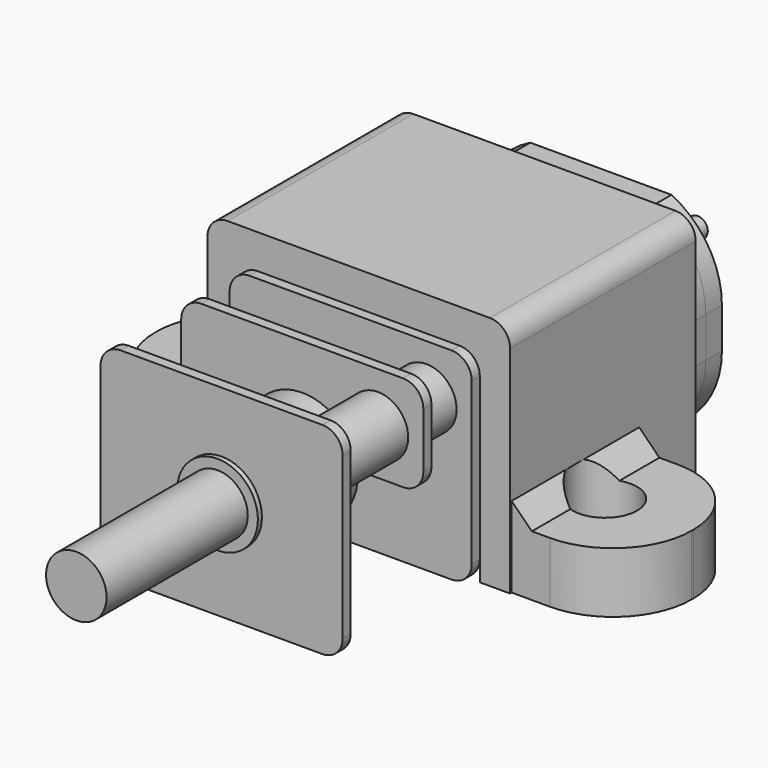
from build123d import *

# Parameters (mm, degrees)
PAD_DEPTH       = 14
POCKET_DEPTH    = 13.5
SKETCH002_R     = 1.5
POCKET001_DEPTH = 14.001
PAD001_DEPTH    = 1
SKETCH004_R     = 2.5
PAD002_DEPTH    = 1
SKETCH005_R     = 1.5
POCKET002_DEPTH = 2.001
SKETCH006_W     = 12
SKETCH006_H     = 10
PAD003_DEPTH    = 0.5
SKETCH007_R     = 1.5
PAD004_DEPTH    = 7.7
SKETCH008_W     = 12
SKETCH008_H     = 10
PAD005_DEPTH    = 0.5
SKETCH009_W     = 12
SKETCH009_H     = 10
PAD006_DEPTH    = 0.5
SKETCH010_R     = 2
PAD007_DEPTH    = 0.25
SKETCH011_R     = 2.5
PAD008_DEPTH    = 3
SKETCH012_R     = 1.5
POCKET003_DEPTH = 5
POCKET004_DEPTH = 1
FILLET_R        = 1
SKETCH014_R     = 1.5
POCKET005_DEPTH = 2
SKETCH015_R     = 1.5
PAD009_DEPTH    = 18
SKETCH016_R     = 1.5
PAD010_DEPTH    = 14
SKETCH017_R     = 2.75
PAD011_DEPTH    = 1.5
PAD012_DEPTH    = 11.5
FILLET001_R     = 1
FILLET002_R     = 2
SKETCH019_W     = 5.8
SKETCH019_H     = 7.9
PAD013_DEPTH    = 3
CHAMFER_SIZE    = 1
FILLET003_R     = 3.9
SKETCH020_R     = 1.6
POCKET006_DEPTH = 4
SKETCH021_R     = 0.5
PAD014_DEPTH    = 5


with BuildPart() as motorshell:
    # Sketch → Pad (new body)
    with BuildSketch(Plane.XZ):
        with BuildLine():
            Line((-3.5, 5), (3.5, 5))
            ThreePointArc((6, 1), (5.323594, 3.358497), (3.5, 5))
            Line((6, 1), (6, -1))
            ThreePointArc((3.5, -5), (5.323594, -3.358497), (6, -1))
            Line((-3.5, -5), (3.5, -5))
            ThreePointArc((-6, -1), (-5.323594, -3.358496), (-3.5, -5))
            Line((-6, 1), (-6, -1))
            ThreePointArc((-3.5, 5), (-5.323594, 3.358496), (-6, 1))
        make_face()
    extrude(amount=PAD_DEPTH)

    # Sketch001 → Pocket (cut)
    with BuildSketch(Plane.XZ):
        with BuildLine():
            Line((-3, 4.5), (3, 4.5))
            ThreePointArc((5.5, 1), (4.810812, 3.15058), (3, 4.5))
            Line((5.5, 1), (5.5, -1))
            ThreePointArc((3, -4.5), (4.810812, -3.15058), (5.5, -1))
            Line((-3, -4.5), (3, -4.5))
            ThreePointArc((-5.5, -1), (-4.810812, -3.15058), (-3, -4.5))
            Line((-5.5, -1), (-5.5, 1))
            ThreePointArc((-3, 4.5), (-4.810812, 3.15058), (-5.5, 1))
        make_face()
    extrude(amount=POCKET_DEPTH, mode=Mode.SUBTRACT)

    # Sketch002 → Pocket001 (cut, through all)
    with BuildSketch(Plane.XZ):
        Circle(SKETCH002_R)
    extrude(amount=POCKET001_DEPTH, mode=Mode.SUBTRACT)


with BuildPart() as backplate:
    # Sketch003 → Pad001 (new body)
    with BuildSketch(Plane.XZ):
        with BuildLine():
            Line((-3.5, 5), (3.5, 5))
            ThreePointArc((6, 1), (5.323593, 3.358495), (3.5, 5))
            Line((6, 1), (6, -1))
            ThreePointArc((3.5, -5), (5.323593, -3.358495), (6, -1))
            Line((3.5, -5), (-3.5, -5))
            ThreePointArc((-6, -1), (-5.323593, -3.358495), (-3.5, -5))
            Line((-6, -1), (-6, 1))
            ThreePointArc((-3.5, 5), (-5.323593, 3.358495), (-6, 1))
        make_face()
    extrude(amount=-PAD001_DEPTH)

    # Sketch004 (on Face10 of Pad001) → Pad002 (join)
    with BuildSketch(Plane(origin=(0, 1, 0), x_dir=(1, 0, 0), z_dir=(0, 1, 0))):
        Circle(SKETCH004_R)
    extrude(amount=PAD002_DEPTH)

    # Sketch005 (on Face12 of Pad002) → Pocket002 (cut, through all)
    with BuildSketch(Plane(origin=(0, 2, 0), x_dir=(1, 0, 0), z_dir=(0, 1, 0))):
        Circle(SKETCH005_R)
    extrude(amount=-POCKET002_DEPTH, mode=Mode.SUBTRACT)


with BuildPart() as gearplates:
    # Sketch006 (on DatumPlane) → Pad003 (new body)
    with BuildSketch(Plane.XZ.offset(14)):
        Rectangle(SKETCH006_W, SKETCH006_H)
    extrude(amount=PAD003_DEPTH)

    # Sketch007 (on Face6 of Pad003) → Pad004 (join)
    with BuildSketch(Plane.XZ.offset(14.5)):
        with Locations((3.75, 2.5)):
            Circle(SKETCH007_R)
        with Locations((-3.75, -2.5)):
            Circle(SKETCH007_R)
    extrude(amount=PAD004_DEPTH)

    # Sketch008 (on DatumPlane) → Pad005 (join)
    with BuildSketch(Plane.XZ.offset(17)):
        Rectangle(SKETCH008_W, SKETCH008_H)
    extrude(amount=PAD005_DEPTH)

    # Sketch009 (on DatumPlane) → Pad006 (join)
    with BuildSketch(Plane.XZ.offset(22)):
        Rectangle(SKETCH009_W, SKETCH009_H)
    extrude(amount=PAD006_DEPTH)

    # Sketch010 (on Face22 of Pad006) → Pad007 (join)
    with BuildSketch(Plane.XZ.offset(22.5)):
        Circle(SKETCH010_R)
    extrude(amount=PAD007_DEPTH)

    # Sketch011 (on Face17 of Pad007) → Pad008 (join)
    with BuildSketch(Plane(origin=(0, -22, 0), x_dir=(1, 0, 0), z_dir=(0, 1, 0))):
        Circle(SKETCH011_R)
    extrude(amount=PAD008_DEPTH)

    # Sketch012 (on Face26 of Pad008) → Pocket003 (cut)
    with BuildSketch(Plane.XZ.offset(22.75)):
        Circle(SKETCH012_R)
    extrude(amount=-POCKET003_DEPTH, mode=Mode.SUBTRACT)

    # Sketch013 (on Face14 of Pocket003) → Pocket004 (cut)
    with BuildSketch(Plane.XZ.offset(17.5)):
        with BuildLine():
            Line((7.000018, 0.25), (7.000018, -6))
            Line((7.000018, -6), (0.75, -6))
            Line((0.75, -2), (0.75, -6))
            ThreePointArc((3.000018, 0.25), (1.409016, -0.409003), (0.75, -2))
            Line((3.000018, 0.25), (7.000018, 0.25))
        make_face()
    extrude(amount=-POCKET004_DEPTH, mode=Mode.SUBTRACT)

    # Fillet
    fillet_edges = [gearplates.edges().sort_by_distance(p)[0] for p in [
        (6, -22.25, 5),
        (6, -17.25, 5),
        (6, -14.25, 5),
        (-6, -22.25, 5),
        (-6, -17.25, 5),
        (-6, -14.25, 5),
        (-6, -22.25, -5),
        (-6, -17.25, -5),
        (-6, -14.25, -5),
        (6, -22.25, -5),
        (6, -14.25, -5),
        (6, -17.25, 0.25),
        (0.75, -17.25, -5),
    ]]
    fillet(fillet_edges, radius=FILLET_R)

    # Sketch014 (on Face2 of Fillet) → Pocket005 (cut)
    with BuildSketch(Plane(origin=(0, -14, 0), x_dir=(1, 0, 0), z_dir=(0, 1, 0))):
        Circle(SKETCH014_R)
    extrude(amount=-POCKET005_DEPTH, mode=Mode.SUBTRACT)


with BuildPart() as motorshaft:
    # Sketch015 (on DatumPlane) → Pad009 (new body)
    with BuildSketch(Plane.XZ.offset(-2)):
        Circle(SKETCH015_R)
    extrude(amount=PAD009_DEPTH)


with BuildPart() as wheelshaft:
    # Sketch016 (on DatumPlane) → Pad010 (new body)
    with BuildSketch(Plane.XZ.offset(17.5)):
        Circle(SKETCH016_R)
    extrude(amount=PAD010_DEPTH)

    # Sketch017 (on DatumPlane) → Pad011 (join)
    with BuildSketch(Plane.XZ.offset(17.5)):
        Circle(SKETCH017_R)
    extrude(amount=PAD011_DEPTH)


with BuildPart() as mountbracket:
    # Sketch018 (on DatumPlane) → Pad012 (new body)
    with BuildSketch(Plane.XZ.offset(2.5)):
        Polygon((-7.5, -5), (-7.5, 6.7), (7.5, 6.7), (7.5, -5), (6, -5), (6, 5), (-6, 5), (-6, -5), align=None)
    extrude(amount=PAD012_DEPTH)

    # Fillet001
    fillet001_edges = [mountbracket.edges().sort_by_distance(p)[0] for p in [
        (-7.5, -8.25, 6.7),
        (7.5, -8.25, 6.7),
    ]]
    fillet(fillet001_edges, radius=FILLET001_R)

    # Fillet002
    fillet002_edges = [mountbracket.edges().sort_by_distance(p)[0] for p in [
        (6, -8.25, 5),
        (-6, -8.25, 5),
    ]]
    fillet(fillet002_edges, radius=FILLET002_R)

    # Sketch019 (on DatumPlane) → Pad013 (join)
    with BuildSketch(Plane.XY.offset(-5)):
        with Locations((10.4, -9.95)):
            Rectangle(SKETCH019_W, SKETCH019_H)
        with Locations((-10.4, -9.95)):
            Rectangle(SKETCH019_W, SKETCH019_H)
    extrude(amount=PAD013_DEPTH)

    # Chamfer
    chamfer_edges = [mountbracket.edges().sort_by_distance(p)[0] for p in [
        (7.5, -9.95, -2),
        (-7.5, -9.95, -2),
    ]]
    chamfer(chamfer_edges, length=CHAMFER_SIZE)

    # Fillet003
    fillet003_edges = [mountbracket.edges().sort_by_distance(p)[0] for p in [
        (13.3, -6, -3.5),
        (13.3, -13.9, -3.5),
        (-13.3, -13.9, -3.5),
        (-13.3, -6, -3.5),
    ]]
    fillet(fillet003_edges, radius=FILLET003_R)

    # Sketch020 (on DatumPlane) → Pocket006 (cut)
    with BuildSketch(Plane.XY.offset(-5)):
        with Locations((-9, -10)):
            Circle(SKETCH020_R)
        with Locations((9, -10)):
            Circle(SKETCH020_R)
    extrude(amount=POCKET006_DEPTH, mode=Mode.SUBTRACT)


with BuildPart() as extendedbackshaft:
    # Sketch021 (on Face1 of CopyPad009) → Pad014 (new body)
    with BuildSketch(Plane(origin=(0, 2, 0), x_dir=(-1, 0, 0), z_dir=(0, 1, 0))):
        Circle(SKETCH021_R)
    extrude(amount=PAD014_DEPTH)


solid = Compound([motorshell.part, backplate.part, gearplates.part, motorshaft.part, wheelshaft.part, mountbracket.part, extendedbackshaft.part])
